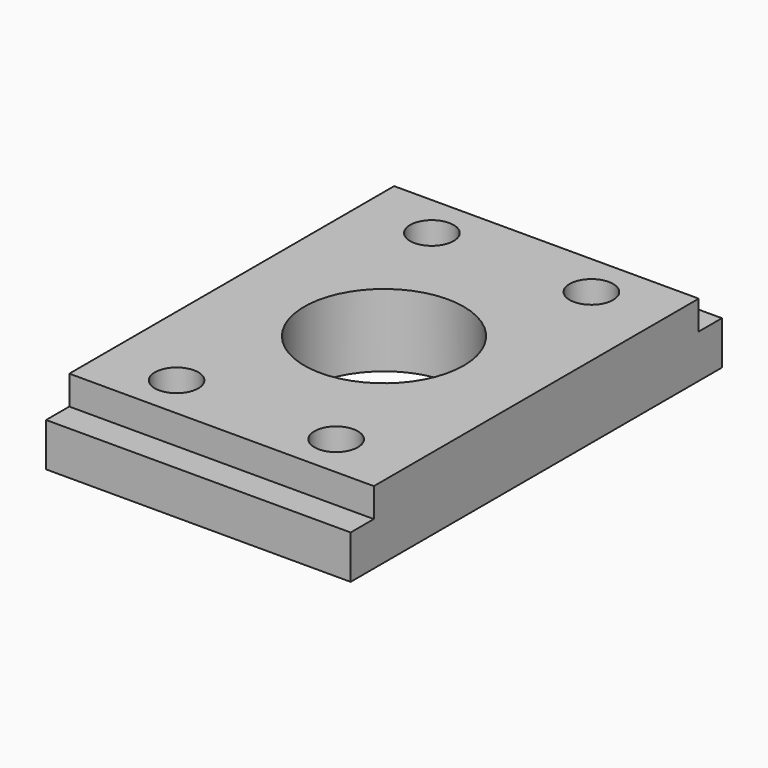
from build123d import *

# Parameters (mm, degrees)
BOX_W           = 21
BOX_H           = 32
BOX_DEPTH       = 5
SKETCH_R        = 5.5
POCKET_DEPTH    = 5.001
SKETCH001_R     = 1.5
POCKET001_DEPTH = 5.001
SKETCH002_W     = 21
SKETCH002_H     = 2
POCKET002_DEPTH = 2


with BuildPart() as part:
    # Box → Box (new body)
    with BuildSketch(Plane.XY):
        with Locations((10.5, 16)):
            Rectangle(BOX_W, BOX_H)
    extrude(amount=BOX_DEPTH)

    # Sketch → Pocket (cut, through all)
    with BuildSketch(Plane.XY.offset(5)):
        with Locations((10.5, 16)):
            Circle(SKETCH_R)
    extrude(amount=-POCKET_DEPTH, mode=Mode.SUBTRACT)

    # Sketch001 → Pocket001 (cut, through all)
    with BuildSketch(Plane.XY.offset(5)):
        with Locations((5, 27)):
            Circle(SKETCH001_R)
        with Locations((16, 27)):
            Circle(SKETCH001_R)
        with Locations((5, 5)):
            Circle(SKETCH001_R)
        with Locations((16, 5)):
            Circle(SKETCH001_R)
    extrude(amount=-POCKET001_DEPTH, mode=Mode.SUBTRACT)

    # Sketch002 → Pocket002 (cut)
    with BuildSketch(Plane.XY.offset(5)):
        with Locations((10.5, 1)):
            Rectangle(SKETCH002_W, SKETCH002_H)
        with Locations((10.5, 31)):
            Rectangle(SKETCH002_W, SKETCH002_H)
    extrude(amount=-POCKET002_DEPTH, mode=Mode.SUBTRACT)


solid = part.part
